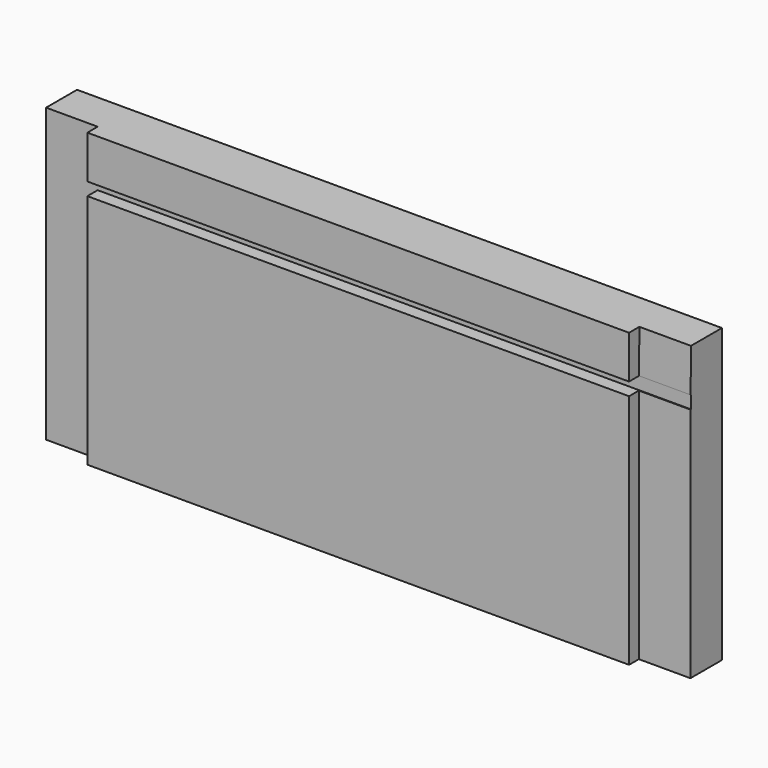
from build123d import *

# Parameters (mm, degrees)
F1_DEPTH = 75
F2_W     = 2.844389
F2_H     = 55
F3_DEPTH = 12
F5_DEPTH = 12
F6_W     = 3
F6_H     = 55
F6_H_2   = 10
F7_DEPTH = 12


with BuildPart() as f1:
    # F0 (on Right) → F1 (new body, symmetric)
    with BuildSketch(Plane.YZ):
        Polygon((-6, -34), (6, -34), (6, 34), (-6, 34), (-6, 24), (-3, 24), (-3, 21), (-6, 21), align=None)
    extrude(amount=F1_DEPTH, both=True)

    # F2 (on face) → F3 (cut)
    with BuildSketch(Plane.YZ.offset(75)):
        with Locations((-4.577806, -6.5)):
            Rectangle(F2_W, F2_H)
    extrude(amount=-F3_DEPTH, mode=Mode.SUBTRACT)

    # F4 (on face) → F5 (cut)
    with BuildSketch(Plane.YZ.offset(75)):
        Polygon((-6, 24), (-3.098777, 24), (-3, 34), (-6, 34), align=None)
    extrude(amount=-F5_DEPTH, mode=Mode.SUBTRACT)

    # F6 (on face) → F7 (cut)
    with BuildSketch(Plane(origin=(-75, 0, 0), x_dir=(0, -1, 0), z_dir=(-1, 0, 0))):
        with Locations((4.5, -6.5)):
            Rectangle(F6_W, F6_H)
        with Locations((4.5, 29)):
            Rectangle(F6_W, F6_H_2)
    extrude(amount=-F7_DEPTH, mode=Mode.SUBTRACT)


solid = f1.part
